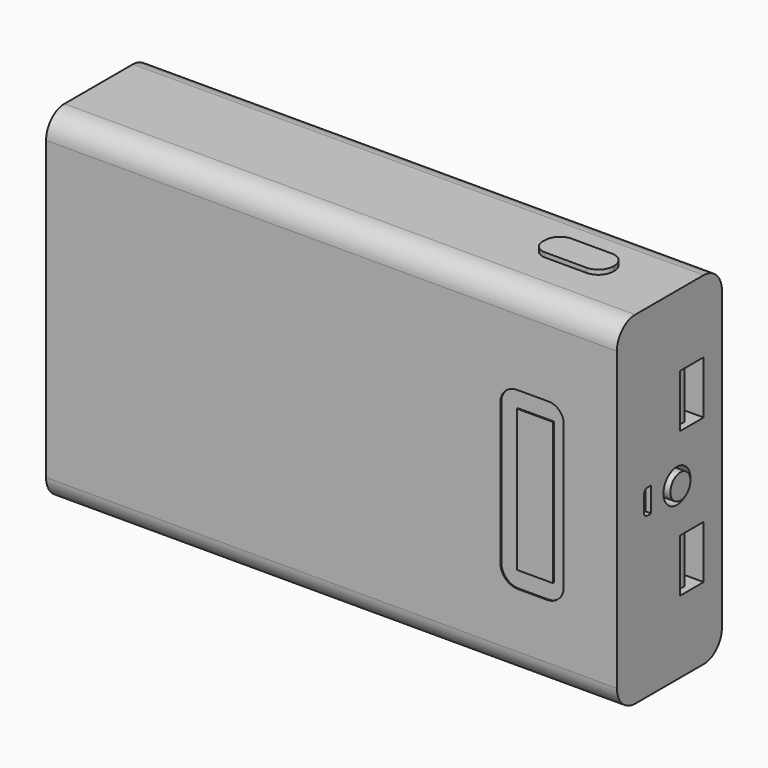
from build123d import *

# Parameters (mm, degrees)
F0_W      = 127
F0_H      = 76.2
F1_DEPTH  = 29.21
F2_R      = 5.08
F3_W      = 6.6195318941
F3_H      = 11.800037697
F4_DEPTH  = 28.956
F5_W      = 1.524
F5_H      = 10.8286906034
F6_DEPTH  = 27.94
F7_R      = 3.7484313793
F8_DEPTH  = 5.588
F9_R      = 2.7812538223
F10_DEPTH = 6.35
F12_DEPTH = 8.636
F14_DEPTH = 7.366
F16_DEPTH = 3.556
F17_DEPTH = 4.572
F18_W     = 7.9864859581
F18_H     = 31.5765572539
F19_DEPTH = 0.254


with BuildPart() as f1:
    # F0 (on Front) → F1 (new body)
    with BuildSketch(Plane.XZ):
        Rectangle(F0_W, F0_H)
    extrude(amount=F1_DEPTH)

    # F2
    f2_edges = [f1.edges().sort_by_distance(p)[0] for p in [
        (0, -29.21, 38.1),
        (0, 0, 38.1),
        (0, -29.21, -38.1),
        (0, 0, -38.1),
    ]]
    fillet(f2_edges, radius=F2_R)

    # F3 (on face) → F4 (cut)
    with BuildSketch(Plane.YZ.offset(63.5)):
        with Locations((-8.3897659471, 16.1171229556)):
            Rectangle(F3_W, F3_H)
        with Locations((-8.3897659471, -16.1171229556)):
            Rectangle(F3_W, F3_H)
    extrude(amount=-F4_DEPTH, mode=Mode.SUBTRACT)

    # F5 (on face) → F6 (join)
    with BuildSketch(Plane.YZ.offset(34.544)):
        with Locations((-9.8508370389, 16.0947965024)):
            Rectangle(F5_W, F5_H)
        with Locations((-9.8508370389, -16.0947965024)):
            Rectangle(F5_W, F5_H)
    extrude(amount=F6_DEPTH)

    # F7 (on face) → F8 (cut)
    with BuildSketch(Plane.YZ.offset(63.5)):
        with Locations((-12.5152766346, -0.14176574)):
            Circle(F7_R)
    extrude(amount=-F8_DEPTH, mode=Mode.SUBTRACT)

    # F9 (on face) → F10 (join)
    with BuildSketch(Plane.YZ.offset(57.912)):
        with Locations((-12.4932004692, -0.0162060605)):
            Circle(F9_R)
    extrude(amount=F10_DEPTH)

    # F11 (on face) → F12 (cut)
    with BuildSketch(Plane.YZ.offset(63.5)):
        with BuildLine():
            Line((-19.6553119308, 2.8573502786), (-20.6747086321, 2.8573502786))
            ThreePointArc((-20.6747086321, 2.8573502786), (-21.4033806509, 2.5555244459), (-21.7052064836, 1.8268524271))
            Line((-21.7052064836, 1.8268524271), (-21.7052064836, -1.6216995807))
            ThreePointArc((-21.7052064836, -1.6216995807), (-21.4033790258, -2.3503755229), (-20.6747030836, -2.6522029807))
            Line((-20.6747030836, -2.6522029807), (-19.6553119308, -2.6522029807))
            Line((-19.6553119308, -2.6522029807), (-19.6553119308, 2.8573502786))
        make_face()
    extrude(amount=-F12_DEPTH, mode=Mode.SUBTRACT)

    # F13 (on face) → F14 (join)
    with BuildSketch(Plane.YZ.offset(54.864)):
        with BuildLine():
            Line((-19.6553119308, -2.6522029807), (-19.6553119308, 2.8573502786))
            Line((-19.6553119308, 2.8573502786), (-20.6747086321, 2.8573502786))
            ThreePointArc((-20.6747086321, 2.8573502786), (-21.4033806509, 2.5555244459), (-21.7052064836, 1.8268524271))
            Line((-21.7052064836, 1.8268524271), (-21.7052064836, -1.6216995807))
            ThreePointArc((-21.7052064836, -1.6216995807), (-21.4033790258, -2.3503755229), (-20.6747030836, -2.6522029807))
            Line((-20.6747030836, -2.6522029807), (-19.6553119308, -2.6522029807))
        make_face()
        Polygon((-20.3632637858, 1.3027831301), (-20.3632637858, 2.1156521834), (-20.0210027397, 2.1156521834), (-20.0210027397, 1.3027831301), (-20.0210027397, 0), (-20.0210027397, -1.7347801622), (-20.3632637858, -1.7347801622), (-20.3632637858, 0), align=None, mode=Mode.SUBTRACT)
    extrude(amount=F14_DEPTH)

    # F15 (on face) → F16 (cut)
    with BuildSketch(Plane.XY.offset(38.1)):
        with BuildLine():
            Line((47.0853128431, -10.2171041071), (38.2701487959, -10.2171041071))
            ThreePointArc((38.2701487959, -10.2171041071), (35.9354614141, -11.1841632846), (34.9684022367, -13.5188506663))
            Line((34.9684022367, -13.5188506663), (34.9684022367, -14.2463892698))
            ThreePointArc((34.9684022367, -14.2463892698), (35.8113644771, -16.2814801432), (37.8464553505, -17.1244423836))
            Line((37.8464553505, -17.1244423836), (47.0853187936, -17.1244423836))
            ThreePointArc((47.0853187936, -17.1244423836), (49.4200057799, -16.15738337), (50.3870647936, -13.8226963836))
            Line((50.3870647936, -13.8226963836), (50.3870647936, -13.5188560576))
            ThreePointArc((50.3870647936, -13.5188560576), (49.4200040371, -11.1841648636), (47.0853128431, -10.2171041071))
        make_face()
    extrude(amount=-F16_DEPTH, mode=Mode.SUBTRACT)

    # F17 (add): a face of the model
    f17_faces = [f1.faces().sort_by_distance(p)[0] for p in [
        (42.6393602825, -13.6846721525, 34.544),
    ]]
    extrude(f17_faces, amount=F17_DEPTH)

    # F18 (on face) → F19 (cut)
    with BuildSketch(Plane.XZ.offset(29.21)):
        with BuildLine():
            Line((48.3708519327, 18.215091899), (41.2623919547, 18.215091899))
            ThreePointArc((41.2623919547, 18.215091899), (38.6504034004, 17.1331708151), (37.5684823165, 14.5211822609))
            Line((37.5684823165, 14.5211822609), (37.5684823165, -16.8614557905))
            ThreePointArc((37.5684823165, -16.8614557905), (38.7072046405, -19.610574669), (41.456323519, -20.749296993))
            Line((41.456323519, -20.749296993), (47.9751093816, -20.749296993))
            ThreePointArc((47.9751093816, -20.749296993), (50.587106677, -19.6673722884), (51.6690313816, -17.055374993))
            Line((51.6690313816, -17.055374993), (51.6690313816, 14.9169124501))
            ThreePointArc((51.6690313816, 14.9169124501), (50.7030169866, 17.249077504), (48.3708519327, 18.215091899))
        make_face()
        with Locations((45.2556349337, -1.2670963661)):
            Rectangle(F18_W, F18_H, mode=Mode.SUBTRACT)
    extrude(amount=-F19_DEPTH, mode=Mode.SUBTRACT)


solid = f1.part
